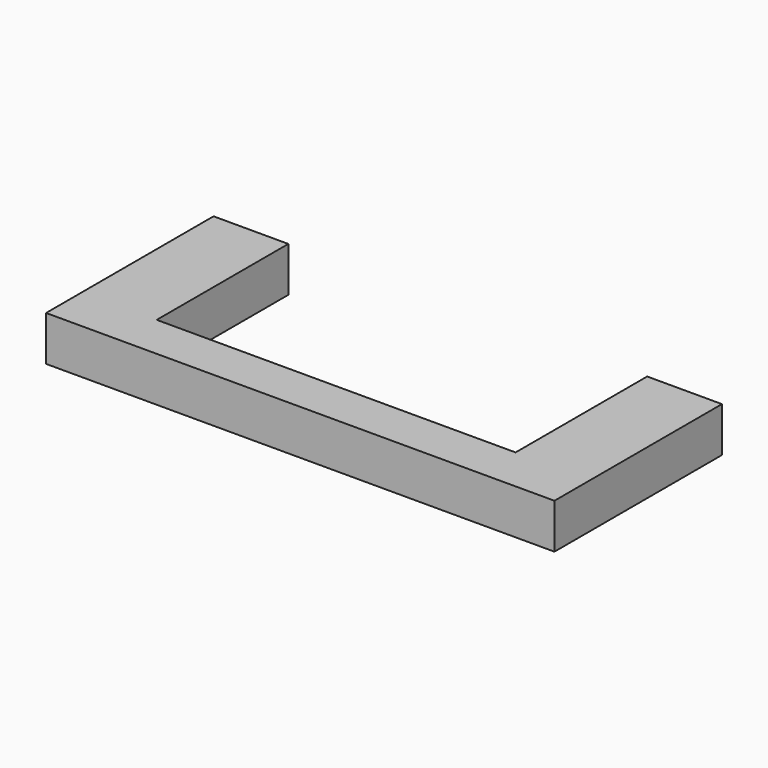
from build123d import *

# Parameters (mm, degrees)
F0_W     = 5
F0_H     = 11
F0_H_2   = 3
F0_W_2   = 24
F1_DEPTH = 3


with BuildPart() as f1:
    # F0 (on Top) → F1 (new body)
    with BuildSketch(Plane.XY):
        with Locations((11.768114, -8.454435)):
            Rectangle(F0_W, F0_H)
        with Locations((11.768114, -15.454435)):
            Rectangle(F0_W, F0_H_2)
        with Locations((26.268114, -15.454435)):
            Rectangle(F0_W_2, F0_H_2)
        with Locations((40.768114, -15.454435)):
            Rectangle(F0_W, F0_H_2)
        with Locations((40.768114, -8.454435)):
            Rectangle(F0_W, F0_H)
    extrude(amount=F1_DEPTH)


solid = f1.part
